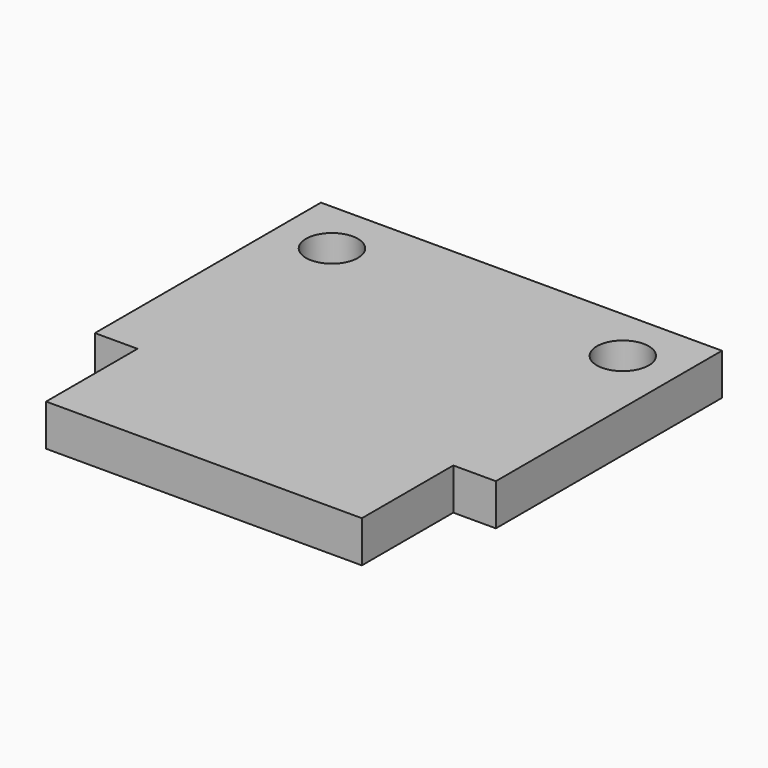
from build123d import *

# Parameters (mm, degrees)
SKETCH003_W     = 19.3
SKETCH003_H     = 13.6
PAD002_DEPTH    = 2
SKETCH004_W     = 15.2
SKETCH004_H     = 5.5
PAD003_DEPTH    = 2
SKETCH005_R     = 1.25
POCKET001_DEPTH = 5


with BuildPart() as part:
    # Sketch003 → Pad002 (new body)
    with BuildSketch(Plane.XY):
        Rectangle(SKETCH003_W, SKETCH003_H)
    extrude(amount=PAD002_DEPTH)

    # Sketch004 (on Face6 of Pad002) → Pad003 (join)
    with BuildSketch(Plane.XY.offset(2)):
        with Locations((0, -9.55)):
            Rectangle(SKETCH004_W, SKETCH004_H)
    extrude(amount=-PAD003_DEPTH)

    # Sketch005 (on Face5 of Pad003) → Pocket001 (cut)
    with BuildSketch(Plane.XY.offset(2)):
        with Locations((-7, 4.15)):
            Circle(SKETCH005_R)
        with Locations((7, 4.15)):
            Circle(SKETCH005_R)
    extrude(amount=-POCKET001_DEPTH, mode=Mode.SUBTRACT)


with BuildPart() as part_1:
    # Body001 placement: moved
    add(part.part.moved(Location((0, 0, -8))))


solid = part_1.part
